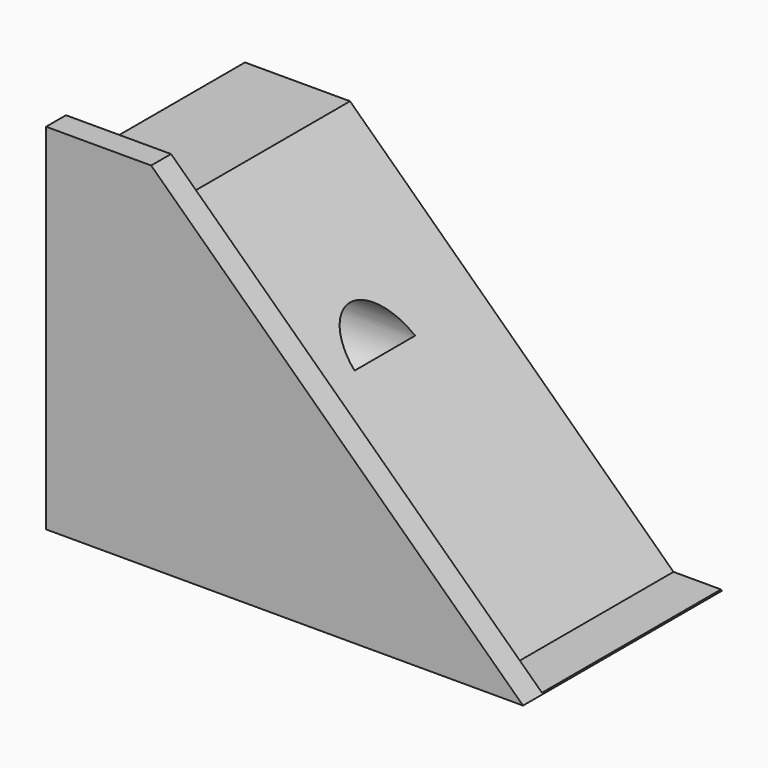
from build123d import *

# Parameters (mm, degrees)
F1_DEPTH = 50.8
F3_DEPTH = 45.72
F4_R     = 7.799938
F5_DEPTH = 25.4


with BuildPart() as f1:
    # F0 (on Front) → F1 (new body)
    with BuildSketch(Plane.XZ):
        Polygon((-27.354645, 36.2239), (-48.827574, 36.2239), (-48.827574, -36.2239), (48.640851, -36.2239), align=None)
    extrude(amount=F1_DEPTH)

    # F2 (on Front) → F3 (cut)
    with BuildSketch(Plane.XZ):
        Polygon((-27.354645, 36.597338), (-48.827574, 36.597338), (-48.827574, 27.138793), (-27.354645, 27.138793), (38.744636, -36.037177), (48.640851, -36.037177), align=None)
    extrude(amount=F3_DEPTH, mode=Mode.SUBTRACT)

    # F4 (on Right) → F5 (cut)
    with BuildSketch(Plane.YZ):
        with Locations((-25.300711, 0)):
            Circle(F4_R)
    extrude(amount=-F5_DEPTH, mode=Mode.SUBTRACT)


solid = f1.part
